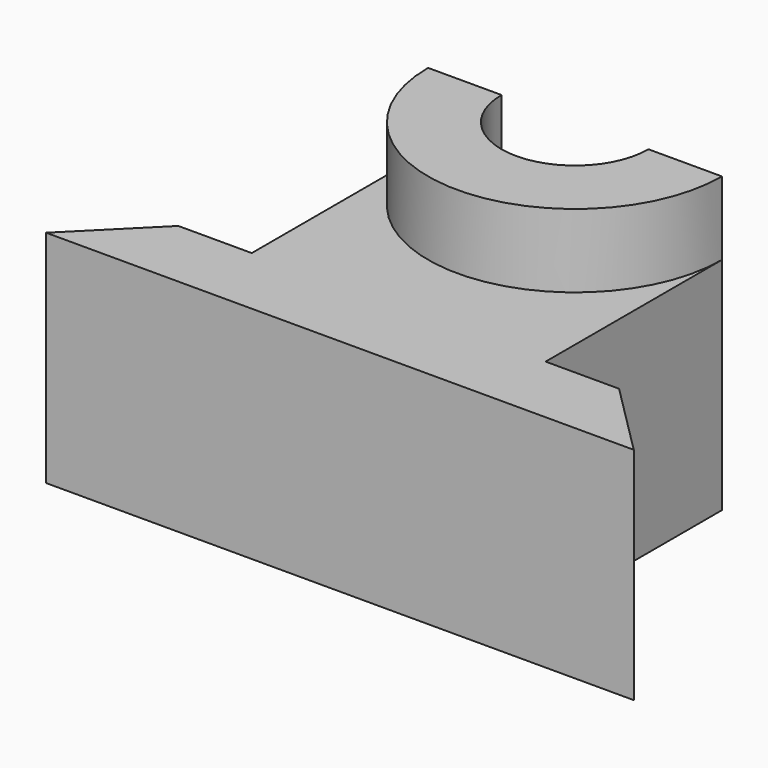
from build123d import *

# Parameters (mm, degrees)
F1_DEPTH = 30
F2_DEPTH = 40


with BuildPart() as f1:
    # F0 (on Top) → F1 (new body)
    with BuildSketch(Plane.XY):
        with BuildLine():
            Line((-30, -10), (-40, -20))
            Line((-40, -20), (40, -20))
            Line((40, -20), (30, -10))
            Line((30, -10), (20, -10))
            Line((20, -10), (20, 20))
            ThreePointArc((20, 20), (0, 0), (-20, 20))
            Line((-20, 20), (-20, -10))
            Line((-20, -10), (-30, -10))
        make_face()
    extrude(amount=F1_DEPTH)

    # F0 (on Top) → F2 (join)
    with BuildSketch(Plane.XY):
        with BuildLine():
            Line((-10, 20), (-20, 20))
            ThreePointArc((-20, 20), (0, 0), (20, 20))
            Line((20, 20), (10, 20))
            ThreePointArc((10, 20), (0, 10), (-10, 20))
        make_face()
    extrude(amount=F2_DEPTH)


solid = f1.part
